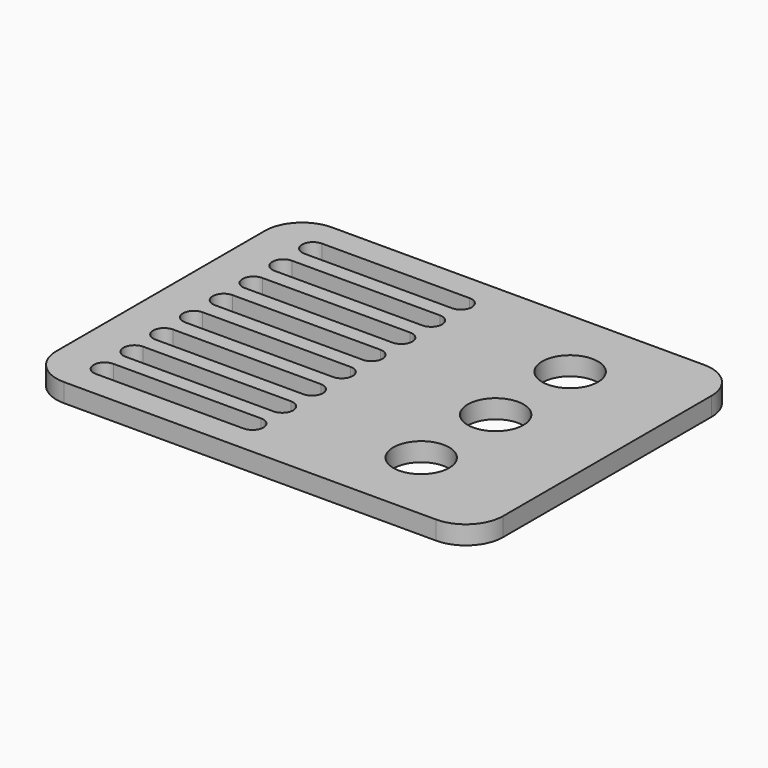
from build123d import *

# Parameters (mm, degrees)
F1_DEPTH = 6.35
F2_R     = 9.525
F3_DEPTH = 6.351
F5_DEPTH = 6.351


with BuildPart() as f1:
    # F0 (on Top) → F1 (new body)
    with BuildSketch(Plane.XY):
        with BuildLine():
            ThreePointArc((76.2, 44.45), (72.480256, 53.430256), (63.5, 57.15))
            Line((63.5, 57.15), (-63.5, 57.15))
            ThreePointArc((-63.5, 57.15), (-72.480256, 53.430256), (-76.2, 44.45))
            Line((-76.2, 44.45), (-76.2, -44.45))
            ThreePointArc((-76.2, -44.45), (-72.480256, -53.430256), (-63.5, -57.15))
            Line((-63.5, -57.15), (63.5, -57.15))
            ThreePointArc((63.5, -57.15), (72.480256, -53.430256), (76.2, -44.45))
            Line((76.2, -44.45), (76.2, 44.45))
        make_face()
    extrude(amount=F1_DEPTH)

    # F2 (on face) → F3 (cut, through all)
    with BuildSketch(Plane.XY.offset(6.35)):
        with Locations((38.1, 31.75)):
            Circle(F2_R)
        with Locations((38.1, 0)):
            Circle(F2_R)
        with Locations((38.1, -31.75)):
            Circle(F2_R)
    extrude(amount=-F3_DEPTH, mode=Mode.SUBTRACT)

    # F4 (on face) → F5 (cut, through all)
    with BuildSketch(Plane.XY.offset(6.35)):
        with BuildLine():
            Line((-59.763934, -48.186066), (-9.324066, -48.186066))
            ThreePointArc((-9.324066, -48.186066), (-5.588, -44.45), (-9.324066, -40.713934))
            Line((-9.324066, -40.713934), (-59.763934, -40.713934))
            ThreePointArc((-59.763934, -40.713934), (-63.5, -44.45), (-59.763934, -48.186066))
        make_face()
        with BuildLine():
            ThreePointArc((-59.763934, -28.013934), (-63.5, -31.75), (-59.763934, -35.486066))
            Line((-59.763934, -35.486066), (-9.324066, -35.486066))
            ThreePointArc((-9.324066, -35.486066), (-5.588, -31.75), (-9.324066, -28.013934))
            Line((-9.324066, -28.013934), (-59.763934, -28.013934))
        make_face()
        with BuildLine():
            ThreePointArc((-59.763934, -15.313934), (-63.5, -19.05), (-59.763934, -22.786066))
            Line((-59.763934, -22.786066), (-9.324066, -22.786066))
            ThreePointArc((-9.324066, -22.786066), (-5.588, -19.05), (-9.324066, -15.313934))
            Line((-9.324066, -15.313934), (-59.763934, -15.313934))
        make_face()
        with BuildLine():
            ThreePointArc((-59.763934, -2.613934), (-63.5, -6.35), (-59.763934, -10.086066))
            Line((-59.763934, -10.086066), (-9.324066, -10.086066))
            ThreePointArc((-9.324066, -10.086066), (-5.588, -6.35), (-9.324066, -2.613934))
            Line((-9.324066, -2.613934), (-59.763934, -2.613934))
        make_face()
        with BuildLine():
            ThreePointArc((-59.763934, 10.086066), (-63.5, 6.35), (-59.763934, 2.613934))
            Line((-59.763934, 2.613934), (-9.324066, 2.613934))
            ThreePointArc((-9.324066, 2.613934), (-5.588, 6.35), (-9.324066, 10.086066))
            Line((-9.324066, 10.086066), (-59.763934, 10.086066))
        make_face()
        with BuildLine():
            ThreePointArc((-59.763934, 22.786066), (-63.5, 19.05), (-59.763934, 15.313934))
            Line((-59.763934, 15.313934), (-9.324066, 15.313934))
            ThreePointArc((-9.324066, 15.313934), (-5.588, 19.05), (-9.324066, 22.786066))
            Line((-9.324066, 22.786066), (-59.763934, 22.786066))
        make_face()
        with BuildLine():
            ThreePointArc((-59.763934, 35.486066), (-63.5, 31.75), (-59.763934, 28.013934))
            Line((-59.763934, 28.013934), (-9.324066, 28.013934))
            ThreePointArc((-9.324066, 28.013934), (-5.588, 31.75), (-9.324066, 35.486066))
            Line((-9.324066, 35.486066), (-59.763934, 35.486066))
        make_face()
        with BuildLine():
            ThreePointArc((-59.763934, 48.186066), (-63.5, 44.45), (-59.763934, 40.713934))
            Line((-59.763934, 40.713934), (-9.324066, 40.713934))
            ThreePointArc((-9.324066, 40.713934), (-5.588, 44.45), (-9.324066, 48.186066))
            Line((-9.324066, 48.186066), (-59.763934, 48.186066))
        make_face()
    extrude(amount=-F5_DEPTH, mode=Mode.SUBTRACT)


solid = f1.part
